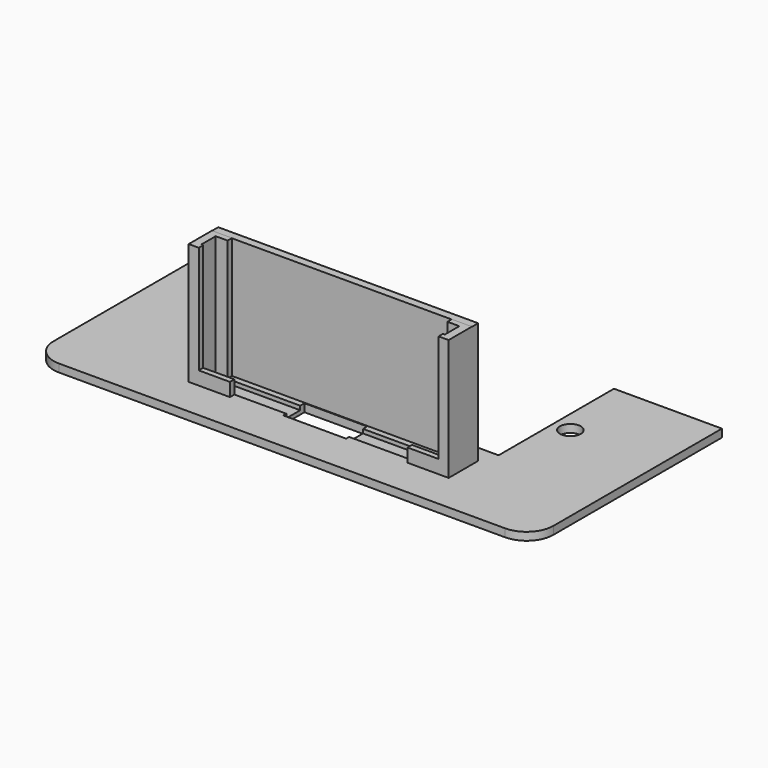
from build123d import *

# Parameters (mm, degrees)
F0_W      = 94.72
F0_H      = 45
F1_DEPTH  = 1.5
F3_D      = 3.935
F3_DEPTH  = 25.4
F3_TIP    = 1.1821932679
F4_D      = 3.935
F4_DEPTH  = 25.4
F4_TIP    = 1.1821932679
F5_W      = 50
F5_H      = 12.7415785939
F6_DEPTH  = 25.4
F7_R      = 5.08
F8_W      = 50
F8_H      = 15.24
F9_DEPTH  = 25.4
F10_W     = 11.9
F10_H     = 5
F11_DEPTH = 25.4
F12_W     = 3.81
F12_H     = 5.5
F13_DEPTH = 23
F14_W     = 4.5235089016
F14_H     = 3.4214928448
F15_DEPTH = 22.86
F16_W     = 4.5235114
F16_H     = 3.429
F17_DEPTH = 22.86
F18_W     = 2.0578785336
F18_H     = 3.2914727926
F19_DEPTH = 0.762
F20_W     = 49.26
F20_H     = 1.5
F21_DEPTH = 22.9616
F22_W     = 4
F22_H     = 1.0637021292
F23_DEPTH = 2.54
F24_W     = 1.9
F24_H     = 27.3218312255
F25_DEPTH = 25.4
F26_W     = 1.905
F26_H     = 20.46
F27_DEPTH = 1.651
F28_W     = 1.905
F28_H     = 20.46
F29_DEPTH = 3.048


with BuildPart() as f1:
    # F0 (on Top) → F1 (new body)
    with BuildSketch(Plane.XY):
        Rectangle(F0_W, F0_H)
    extrude(amount=F1_DEPTH)

    # F3
    with Locations(Plane.XY.offset(1.5)):
        with Locations((-31.3515785038, 8.1213163212)):
            Hole(F3_D / 2, depth=F3_DEPTH)
            with Locations((0, 0, -(F3_DEPTH + F3_TIP / 2))):  # 118° drill point
                Cone(0, F3_D / 2, F3_TIP, mode=Mode.SUBTRACT)

    # F4
    with Locations(Plane.XY.offset(1.5)):
        with Locations((30.1484214962, 8.1213163212)):
            Hole(F4_D / 2, depth=F4_DEPTH)
            with Locations((0, 0, -(F4_DEPTH + F4_TIP / 2))):  # 118° drill point
                Cone(0, F4_D / 2, F4_TIP, mode=Mode.SUBTRACT)

    # F5 (on face) → F6 (cut)
    with BuildSketch(Plane.XY.offset(1.5)):
        with Locations((0, 16.1292107031)):
            Rectangle(F5_W, F5_H)
    extrude(amount=-F6_DEPTH, mode=Mode.SUBTRACT)

    # F7
    f7_edges = [f1.edges().sort_by_distance(p)[0] for p in [
        (-47.36, -22.5, 0.75),
        (47.36, -22.5, 0.75),
    ]]
    fillet(f7_edges, radius=F7_R)

    # F8 (on face) → F9 (cut)
    with BuildSketch(Plane.XY.offset(1.5)):
        with Locations((0, 2.7981687745)):
            Rectangle(F8_W, F8_H)
    extrude(amount=-F9_DEPTH, mode=Mode.SUBTRACT)

    # F10 (on face) → F11 (cut)
    with BuildSketch(Plane.XY.offset(1.5)):
        with Locations((0, -12.2533300715)):
            Rectangle(F10_W, F10_H)
    extrude(amount=-F11_DEPTH, mode=Mode.SUBTRACT)

    # F12 (on face) → F13 (join)
    with BuildSketch(Plane.XY.offset(1.5)):
        with Locations((-21.6960607332, -12.3569313288)):
            Rectangle(F12_W, F12_H)
        with Locations((23.7539392668, -12.3569313288)):
            Rectangle(F12_W, F12_H)
    extrude(amount=F13_DEPTH)

    # F14 (on face) → F15 (cut)
    with BuildSketch(Plane.XY.offset(24.5)):
        with Locations((-19.7910607332, -12.3569313288)):
            Rectangle(F14_W, F14_H)
    extrude(amount=-F15_DEPTH, mode=Mode.SUBTRACT)

    # F16 (on face) → F17 (cut)
    with BuildSketch(Plane.XY.offset(24.5)):
        with Locations((21.8489392668, -12.3569313288)):
            Rectangle(F16_W, F16_H)
    extrude(amount=-F17_DEPTH, mode=Mode.SUBTRACT)

    # F18 (on face) → F19 (cut)
    with BuildSketch(Plane.XY.offset(1.5)):
        Polygon((-19.7910607332, -10.7469186187), (-19.7910607332, -14.0432291996), (19.7910607332, -14.0432291996), (19.7910607332, -14.0383914113), (19.7910607332, -10.7469186187), align=None)
        with Locations((20.82, -12.392655015)):
            Rectangle(F18_W, F18_H)
    extrude(amount=-F19_DEPTH, mode=Mode.SUBTRACT)

    # F20 (on face) → F21 (join)
    with BuildSketch(Plane.XY.offset(1.5)):
        with Locations((1.0289392668, -8.8569313288)):
            Rectangle(F20_W, F20_H)
    extrude(amount=F21_DEPTH)

    # F22 (on face) → F23 (join)
    with BuildSketch(Plane.XY.offset(1.5)):
        with Locations((-17.7910607332, -14.5750802642)):
            Rectangle(F22_W, F22_H)
        with Locations((19.8489392668, -14.5750802642)):
            Rectangle(F22_W, F22_H)
    extrude(amount=F23_DEPTH)

    # F24 (on face) → F25 (cut)
    with BuildSketch(Plane.XY.offset(1.5)):
        with Locations((-25.95, 8.8390843872)):
            Rectangle(F24_W, F24_H)
        with Locations((25.95, 8.8390843872)):
            Rectangle(F24_W, F24_H)
    extrude(amount=-F25_DEPTH, mode=Mode.SUBTRACT)

    # F26 (on face) → F27 (cut)
    with BuildSketch(Plane.XZ.offset(15.1069313288)):
        with Locations((-20.7435607332, 14.27)):
            Rectangle(F26_W, F26_H)
    extrude(amount=-F27_DEPTH, mode=Mode.SUBTRACT)

    # F28 (on face) → F29 (cut)
    with BuildSketch(Plane.XZ.offset(15.1069313288)):
        with Locations((22.8014392668, 14.27)):
            Rectangle(F28_W, F28_H)
    extrude(amount=-F29_DEPTH, mode=Mode.SUBTRACT)


solid = f1.part
